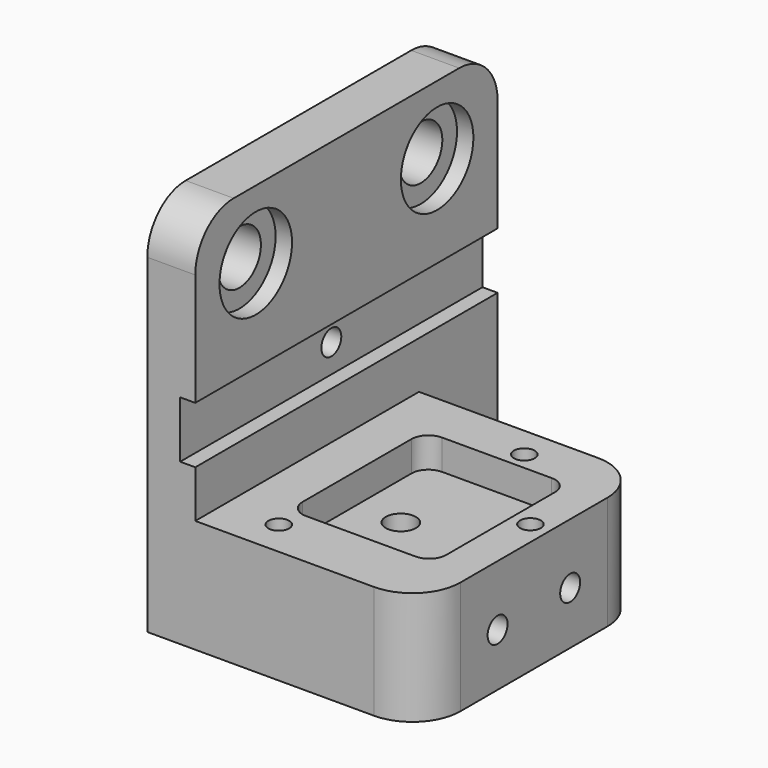
from build123d import *

# Parameters (mm, degrees)
PAD021_DEPTH        = 25
HOLE006_D           = 4.763
HOLE006_DEPTH       = 25.56905
HOLE006_CBORE_D     = 6
HOLE006_CBORE_DEPTH = 11
HOLE006_TIPS_R      = 2.3815
SKETCH054_R         = 2
HOLE007_DEPTH       = 50.001
HOLE008_D           = 7.14
HOLE008_CBORE_D     = 12
HOLE008_CBORE_DEPTH = 2.17
SKETCH057_W         = 35
SKETCH057_H         = 20
POCKET019_DEPTH     = 11.001
HOLE009_D           = 4.7625
HOLE009_DEPTH       = 30.569201
HOLE009_CBORE_D     = 6
HOLE009_CBORE_DEPTH = 7.3
HOLE009_TIPS_R      = 2.38125
SKETCH058_W         = 30
SKETCH058_H         = 37
PAD022_DEPTH        = 4
SKETCH059_R         = 1.375
HOLE010_DEPTH       = 5.173817
HOLE010_TIPS_R      = 1.375
SKETCH056_R         = 2.1
HOLE011_DEPTH       = 8.738193
HOLE011_TIPS_R      = 2.1
SKETCH060_R         = 1.65
HOLE012_DEPTH       = 18.351
FILLET004_R         = 6.35
CHAMFER002_SIZE     = 1.7
SKETCH073_R         = 1.65
HOLE014_DEPTH       = 6.00858
HOLE014_TIPS_R      = 1.65


with BuildPart() as part:
    # Sketch051 → Pad021 (new body, symmetric)
    with BuildSketch(Plane.XZ):
        Polygon((18, 0), (18, 11), (-12, 11), (-12, 21.25), (-14, 21.25), (-14, 28.75), (-12, 28.75), (-12, 50), (-18.35, 50), (-18.35, 0), align=None)
    extrude(amount=PAD021_DEPTH, both=True)

    # Hole006
    with Locations(Plane(origin=(-18.35, 0, 0), x_dir=(0, -1, 0), z_dir=(-1, 0, 0))):
        with Locations((16, 5.5)):
            CounterBoreHole(HOLE006_D / 2, HOLE006_CBORE_D / 2, HOLE006_CBORE_DEPTH, depth=HOLE006_DEPTH)

    # Hole006 tips → Hole006 tip 1 section 0
    with BuildSketch(Plane(origin=(7.21905, 0, 0), x_dir=(0, -1, 0), z_dir=(-1, 0, 0)), mode=Mode.PRIVATE) as hole006_tip_1_s0:
        with Locations((16, 5.5)):
            Circle(HOLE006_TIPS_R)
    loft([hole006_tip_1_s0.sketch, Vertex(8.65, -16, 5.5)], mode=Mode.SUBTRACT)

    # Sketch054 → Hole007 (cut, through all)
    with BuildSketch(Plane(origin=(0, 0, 0), x_dir=(-1, 0, 0), z_dir=(0, 0, -1))):
        with Locations((0, -6)):
            Circle(SKETCH054_R)
    extrude(amount=-HOLE007_DEPTH, mode=Mode.SUBTRACT)

    # Hole008 (through all)
    with Locations(Plane.YZ.offset(-12)):
        with Locations((-15, 40.95), (15, 40.95)):
            CounterBoreHole(HOLE008_D / 2, HOLE008_CBORE_D / 2, HOLE008_CBORE_DEPTH)

    # Sketch057 → Pocket019 (cut, through all)
    with BuildSketch(Plane.XY.offset(11)):
        with Locations((5.5, 22)):
            Rectangle(SKETCH057_W, SKETCH057_H)
    extrude(amount=-POCKET019_DEPTH, mode=Mode.SUBTRACT)

    # Hole009
    with Locations(Plane(origin=(0, 12, 0), x_dir=(-1, 0, 0), z_dir=(0, 1, 0))):
        with Locations((-6.35, 5.5), (6.35, 5.5)):
            CounterBoreHole(HOLE009_D / 2, HOLE009_CBORE_D / 2, HOLE009_CBORE_DEPTH, depth=HOLE009_DEPTH)

    # Hole009 tips → Hole009 tip 1 section 0
    with BuildSketch(Plane(origin=(0, -18.569201, 0), x_dir=(-1, 0, 0), z_dir=(0, 1, 0)), mode=Mode.PRIVATE) as hole009_tip_1_s0:
        with Locations((-6.35, 5.5)):
            Circle(HOLE009_TIPS_R)
    loft([hole009_tip_1_s0.sketch, Vertex(6.35, -20, 5.5)], mode=Mode.SUBTRACT)

    # Hole009 tips → Hole009 tip 2 section 0
    with BuildSketch(Plane(origin=(0, -18.569201, 0), x_dir=(-1, 0, 0), z_dir=(0, 1, 0)), mode=Mode.PRIVATE) as hole009_tip_2_s0:
        with Locations((6.35, 5.5)):
            Circle(HOLE009_TIPS_R)
    loft([hole009_tip_2_s0.sketch, Vertex(-6.35, -20, 5.5)], mode=Mode.SUBTRACT)

    # Sketch058 → Pad022 (join)
    with BuildSketch(Plane.XY.offset(11)):
        with Locations((3, -6.5)):
            Rectangle(SKETCH058_W, SKETCH058_H)
        with BuildLine():
            Line((13, -14.75), (13, 3.25))
            ThreePointArc((13, 3.25), (12.34099, 4.84099), (10.75, 5.5))
            Line((10.75, 5.5), (-3.75, 5.5))
            ThreePointArc((-3.75, 5.5), (-5.34099, 4.84099), (-6, 3.25))
            Line((-6, 3.25), (-6, -14.75))
            ThreePointArc((-6, -14.75), (-5.34099, -16.34099), (-3.75, -17))
            Line((-3.75, -17), (10.75, -17))
            ThreePointArc((10.75, -17), (12.34099, -16.34099), (13, -14.75))
        make_face(mode=Mode.SUBTRACT)
    extrude(amount=PAD022_DEPTH)

    # Sketch059 → Hole010 (cut)
    with BuildSketch(Plane.XY.offset(15)):
        with Locations((15.5, -3.95)):
            Circle(SKETCH059_R)
        with Locations((5.25, 7.85)):
            Circle(SKETCH059_R)
        with Locations((-4.75, -20.25)):
            Circle(SKETCH059_R)
    extrude(amount=-HOLE010_DEPTH, mode=Mode.SUBTRACT)

    # Hole010 tips → Hole010 tip 1 section 0
    with BuildSketch(Plane.XY.offset(9.826183), mode=Mode.PRIVATE) as hole010_tip_1_s0:
        with Locations((15.5, -3.95)):
            Circle(HOLE010_TIPS_R)
    loft([hole010_tip_1_s0.sketch, Vertex(15.5, -3.95, 9)], mode=Mode.SUBTRACT)

    # Hole010 tips → Hole010 tip 2 section 0
    with BuildSketch(Plane.XY.offset(9.826183), mode=Mode.PRIVATE) as hole010_tip_2_s0:
        with Locations((5.25, 7.85)):
            Circle(HOLE010_TIPS_R)
    loft([hole010_tip_2_s0.sketch, Vertex(5.25, 7.85, 9)], mode=Mode.SUBTRACT)

    # Hole010 tips → Hole010 tip 3 section 0
    with BuildSketch(Plane.XY.offset(9.826183), mode=Mode.PRIVATE) as hole010_tip_3_s0:
        with Locations((-4.75, -20.25)):
            Circle(HOLE010_TIPS_R)
    loft([hole010_tip_3_s0.sketch, Vertex(-4.75, -20.25, 9)], mode=Mode.SUBTRACT)

    # Sketch056 → Hole011 (cut)
    with BuildSketch(Plane(origin=(-18.35, 0, 0), x_dir=(0, -1, 0), z_dir=(-1, 0, 0))):
        with Locations((0, 9.05)):
            Circle(SKETCH056_R)
    extrude(amount=-HOLE011_DEPTH, mode=Mode.SUBTRACT)

    # Hole011 tips → Hole011 tip 1 section 0
    with BuildSketch(Plane(origin=(-9.611807, 0, 0), x_dir=(0, -1, 0), z_dir=(-1, 0, 0)), mode=Mode.PRIVATE) as hole011_tip_1_s0:
        with Locations((0, 9.05)):
            Circle(HOLE011_TIPS_R)
    loft([hole011_tip_1_s0.sketch, Vertex(-8.35, 0, 9.05)], mode=Mode.SUBTRACT)

    # Sketch060 → Hole012 (cut, through all)
    with BuildSketch(Plane.YZ):
        with Locations((0, 25)):
            Circle(SKETCH060_R)
    extrude(amount=-HOLE012_DEPTH, mode=Mode.SUBTRACT)

    # Fillet004
    fillet004_edges = [part.edges().sort_by_distance(p)[0] for p in [
        (-15.175, 25, 50),
        (-15.175, -25, 50),
        (18, -25, 13),
        (18, -25, 5.5),
        (18, 12, 5.5),
        (18, 12, 13),
        (-15.175, 25, 0),
    ]]
    fillet(fillet004_edges, radius=FILLET004_R)

    # Chamfer002
    chamfer002_edges = [part.edges().sort_by_distance(p)[0] for p in [
        (-18.35, -13, 5.5),
    ]]
    chamfer(chamfer002_edges, length=CHAMFER002_SIZE)

    # Sketch073 → Hole014 (cut)
    with BuildSketch(Plane.YZ.offset(18)):
        with Locations((-0.5, 7)):
            Circle(SKETCH073_R)
        with Locations((-12.5, 7)):
            Circle(SKETCH073_R)
    extrude(amount=-HOLE014_DEPTH, mode=Mode.SUBTRACT)

    # Hole014 tips → Hole014 tip 1 section 0
    with BuildSketch(Plane.YZ.offset(11.99142), mode=Mode.PRIVATE) as hole014_tip_1_s0:
        with Locations((-0.5, 7)):
            Circle(HOLE014_TIPS_R)
    loft([hole014_tip_1_s0.sketch, Vertex(11, -0.5, 7)], mode=Mode.SUBTRACT)

    # Hole014 tips → Hole014 tip 2 section 0
    with BuildSketch(Plane.YZ.offset(11.99142), mode=Mode.PRIVATE) as hole014_tip_2_s0:
        with Locations((-12.5, 7)):
            Circle(HOLE014_TIPS_R)
    loft([hole014_tip_2_s0.sketch, Vertex(11, -12.5, 7)], mode=Mode.SUBTRACT)


solid = part.part
